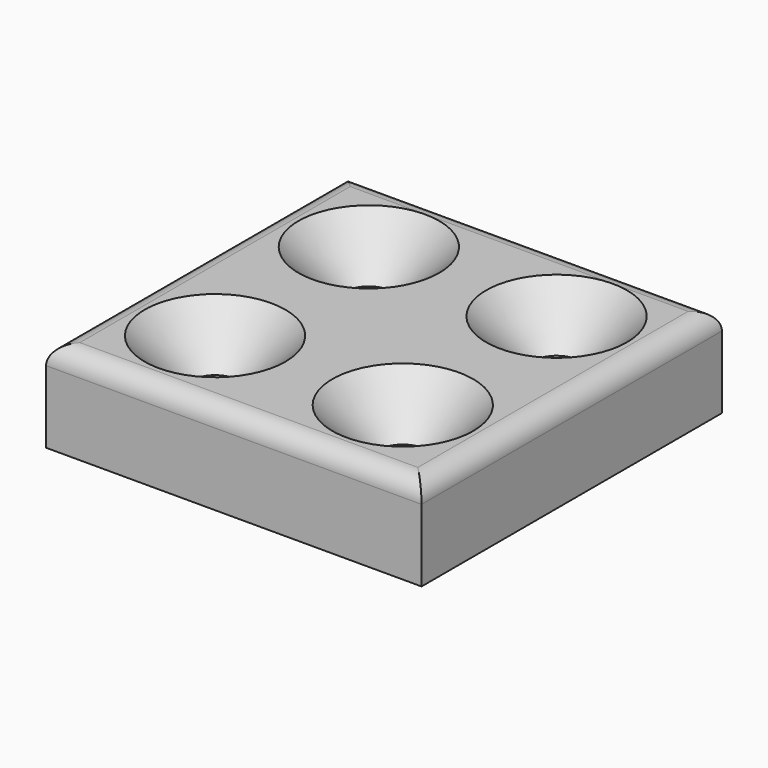
from build123d import *

# Parameters (mm, degrees)
F0_R     = 2.5
F1_DEPTH = 9.7
F2_SIZE  = 5
F3_R     = 2


with BuildPart() as f1:
    # F0 (on Top) → F1 (new body)
    with BuildSketch(Plane.XY):
        Polygon((-20, 10.480181), (-20, -20), (-10, -20), (0, -20), (20, -20), (20, 20), (10, 20), (-10, 20), (-20, 20), align=None)
        with Locations((-10, -10)):
            Circle(F0_R, mode=Mode.SUBTRACT)
        with Locations((10, -10)):
            Circle(F0_R, mode=Mode.SUBTRACT)
        with Locations((-10, 10.480181)):
            Circle(F0_R, mode=Mode.SUBTRACT)
        with Locations((10, 10.480181)):
            Circle(F0_R, mode=Mode.SUBTRACT)
    extrude(amount=F1_DEPTH)

    # F2
    f2_edges = [f1.edges().sort_by_distance(p)[0] for p in [
        (-12.5, 10.480181, 9.7),
        (7.5, 10.480181, 9.7),
        (7.5, -10, 9.7),
        (-12.5, -10, 9.7),
    ]]
    chamfer(f2_edges, length=F2_SIZE)

    # F3
    f3_edges = [f1.edges().sort_by_distance(p)[0] for p in [
        (0, -20, 9.7),
        (20, 0, 9.7),
        (0, 20, 9.7),
        (-20, 0, 9.7),
    ]]
    fillet(f3_edges, radius=F3_R)


solid = f1.part
